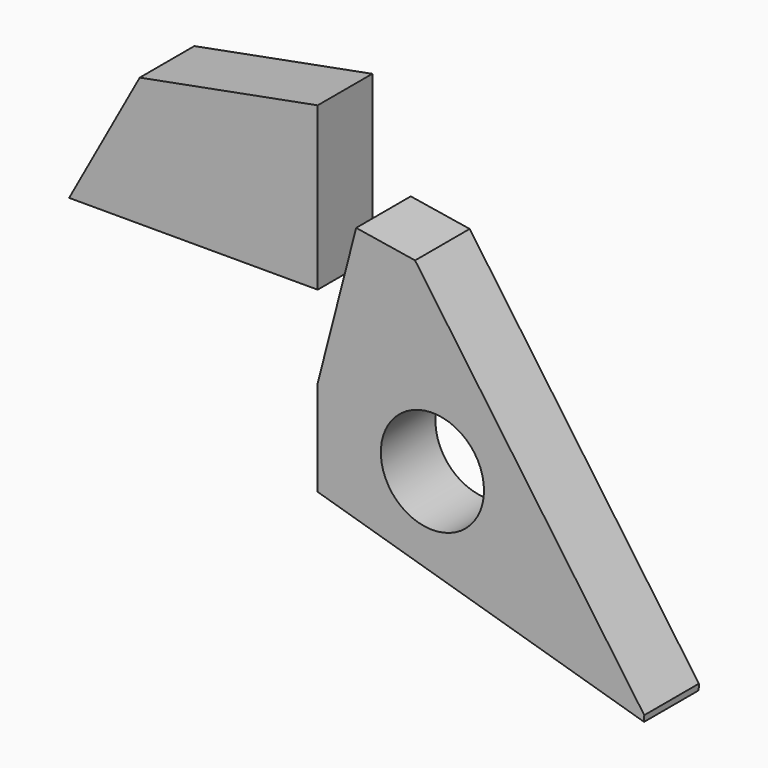
from build123d import *

# Parameters (mm, degrees)
F1_DEPTH = 25.4
F2_R     = 19.194292
F3_DEPTH = 25.4
F5_DEPTH = 25.4


with BuildPart() as f1:
    # F0 (on Front) → F1 (new body)
    with BuildSketch(Plane.XZ):
        Polygon((14.315575, 55.558085), (0, 0), (0, -35.604056), (121.462278, -71.45904), (121.52645, -69.229051), (36.238439, 52.01849), align=None)
    extrude(amount=F1_DEPTH)

    # F2 (on face) → F3 (cut)
    with BuildSketch(Plane.XZ.offset(25.4)):
        with Locations((42.692915, -14.988674)):
            Circle(F2_R)
    extrude(amount=-F3_DEPTH, mode=Mode.SUBTRACT)


with BuildPart() as f5:
    # F4 (on Front) → F5 (new body)
    with BuildSketch(Plane.XZ):
        Polygon((-66.230401, 78.588381), (-92.49682, 30.638449), (0, 30.638449), (0, 91.044433), align=None)
    extrude(amount=F5_DEPTH)


solid = Compound([f1.part, f5.part])
